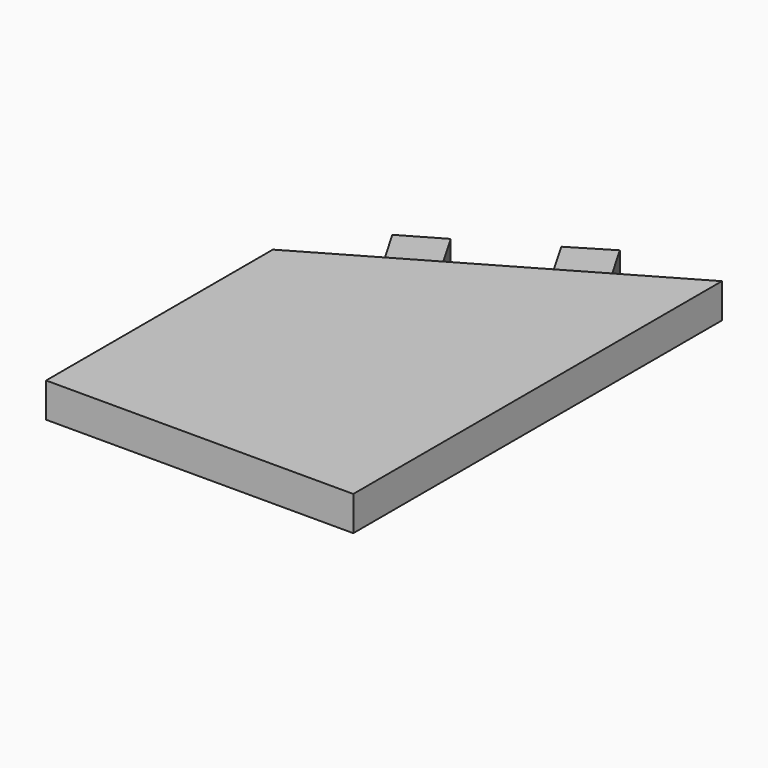
from build123d import *

# Parameters (mm, degrees)
F1_DEPTH = 5.715
F2_DEPTH = 5.08


with BuildPart() as f1:
    # F0 (on Top) → F1 (new body)
    with BuildSketch(Plane.XY):
        Polygon((-32.884726, 22.468984), (-32.884726, -24.401611), (17.915274, -24.401611), (17.915274, 51.798389), (5.346139, 44.541593), (-1.252979, 40.731589), (-13.769296, 33.505287), (-20.368409, 29.695286), align=None)
    extrude(amount=F1_DEPTH)

    # F0 (on Top) → F2 (join)
    with BuildSketch(Plane.XY):
        Polygon((-1.252979, 40.731589), (5.346139, 44.541593), (1.467206, 51.2601), (-5.06298, 47.330702), align=None)
        Polygon((-24.17841, 36.294399), (-20.368409, 29.695286), (-13.769296, 33.505287), (-17.579297, 40.1044), align=None)
    extrude(amount=F2_DEPTH)


solid = f1.part
